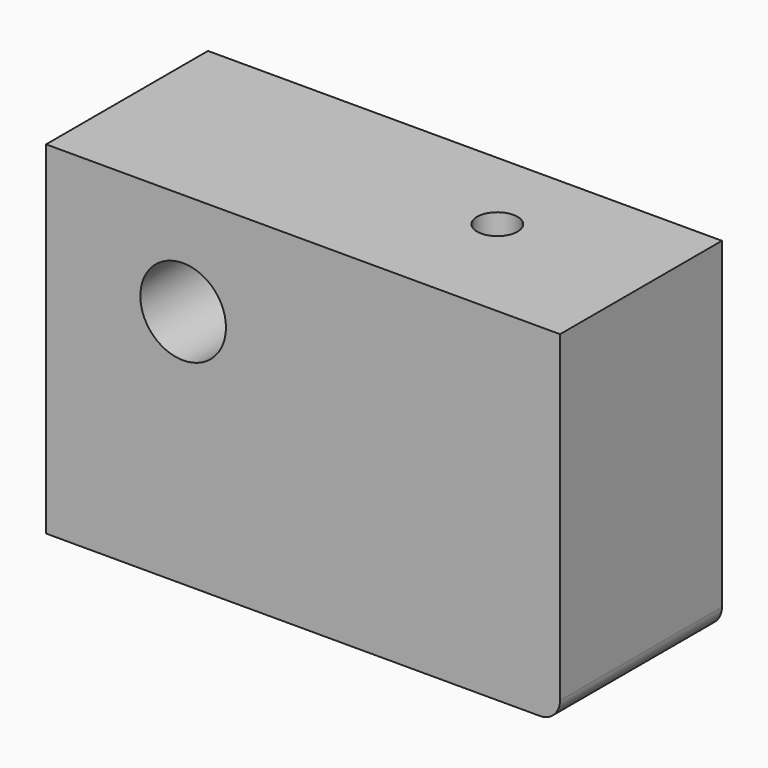
from build123d import *

# Parameters (mm, degrees)
F0_W     = 76.2
F0_H     = 50.8
F0_R     = 6.35
F1_DEPTH = 30
F2_R     = 3
F3_DEPTH = 50.801
F4_R     = 3


with BuildPart() as f1:
    # F0 (on Front) → F1 (new body)
    with BuildSketch(Plane.XZ):
        Rectangle(F0_W, F0_H)
        with Locations((-17.78, 10.16)):
            Circle(F0_R, mode=Mode.SUBTRACT)
    extrude(amount=F1_DEPTH)

    # F2 (on face) → F3 (cut, through all)
    with BuildSketch(Plane.XY.offset(25.4)):
        with Locations((15.198684, -13)):
            Circle(F2_R)
    extrude(amount=-F3_DEPTH, mode=Mode.SUBTRACT)

    # F4
    f4_edges = [f1.edges().sort_by_distance(p)[0] for p in [
        (38.1, -15, -25.4),
    ]]
    fillet(f4_edges, radius=F4_R)


solid = f1.part
